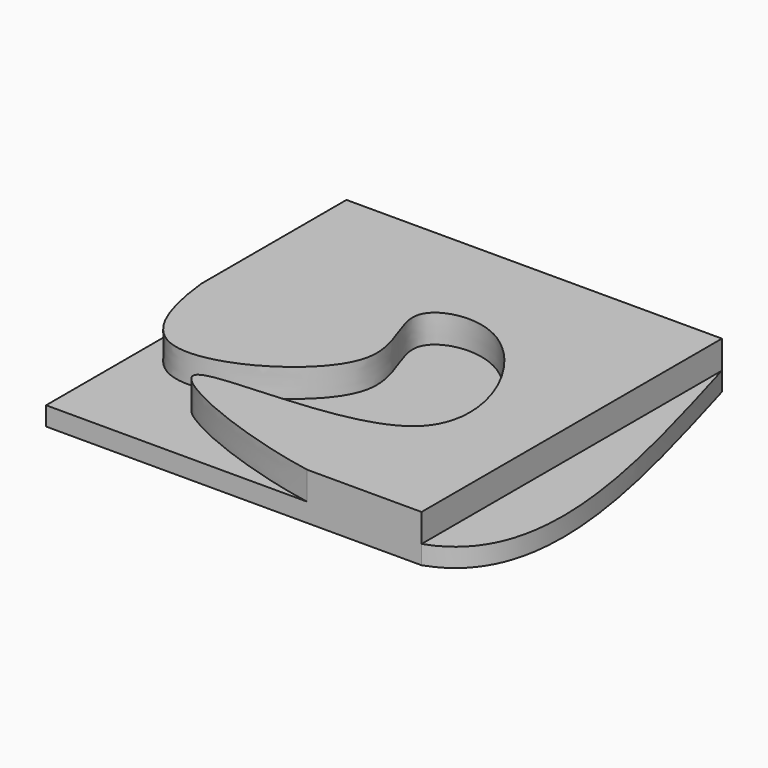
from build123d import *

# Parameters (mm, degrees)
F1_DEPTH = 5
F2_DEPTH = 2


with BuildPart() as f1:
    # F0 (on Top) → F1 (new body)
    with BuildSketch(Plane.XY):
        with BuildLine():
            Line((-7.4952412397, 50.2934651077), (-47.4952412397, 50.2934651077))
            Line((-47.4952412397, 50.2934651077), (-47.4952412397, 30.9820267132))
            add(Edge.make_bspline(
                [(-47.4952412397, 30.9820267132), (-46.9242420585, 25.7090148303), (-43.4273658156, 16.1644249695), (-23.579466068, 27.8873015825), (-33.2077410047, 38.771577173), (-20.3882568249, 42.2265522164), (-8.0976846172, 15.9806232842), (-49.5644023744, 21.206814307), (-28.7022800722, 11.9686181976), (-19.6820129927, 10.2934651077)],
                knots=[0.077204188, 0.077204188, 0.077204188, 0.077204188, 0.1522913927, 0.2642186958, 0.3483407508, 0.4245088992, 0.5407634463, 0.6682289164, 0.7713376663, 0.7713376663, 0.7713376663, 0.7713376663], degree=3))
            Line((-19.6820129927, 10.2934651077), (-7.4952412397, 10.2934651077))
            Line((-7.4952412397, 10.2934651077), (-7.4952412397, 50.2934651077))
        make_face()
    extrude(amount=F1_DEPTH)

    # F0 (on Top) → F2 (join)
    with BuildSketch(Plane.XY):
        with BuildLine():
            add(Edge.make_bspline(
                [(-47.4952412397, 30.9820267132), (-46.9242420585, 25.7090148303), (-43.4273658156, 16.1644249695), (-23.579466068, 27.8873015825), (-33.2077410047, 38.771577173), (-20.3882568249, 42.2265522164), (-8.0976846172, 15.9806232842), (-49.5644023744, 21.206814307), (-28.7022800722, 11.9686181976), (-19.6820129927, 10.2934651077)],
                knots=[0.077204188, 0.077204188, 0.077204188, 0.077204188, 0.1522913927, 0.2642186958, 0.3483407508, 0.4245088992, 0.5407634463, 0.6682289164, 0.7713376663, 0.7713376663, 0.7713376663, 0.7713376663], degree=3))
            Line((-47.4952412397, 30.9820267132), (-47.4952412397, 10.2934651077))
            Line((-47.4952412397, 10.2934651077), (-19.6820129927, 10.2934651077))
        make_face()
        with BuildLine():
            add(Edge.make_bspline(
                [(-7.4952412397, 10.2934651077), (2.9952501068, 13.8920543068), (-2.2499955664, 32.0927597073), (-7.4952412397, 50.2934651077)],
                knots=[0.8236560651, 0.8236560651, 0.8236560651, 0.8236560651, 1, 1, 1, 1], degree=3))
            Line((-7.4952412397, 50.2934651077), (-7.4952412397, 10.2934651077))
        make_face()
    extrude(amount=F2_DEPTH)


solid = f1.part
